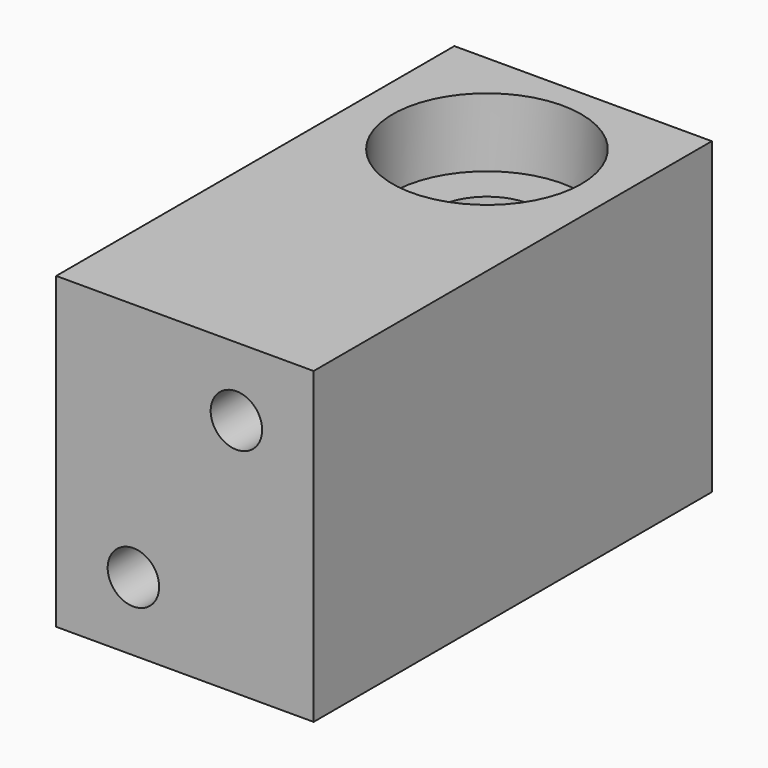
from build123d import *

# Parameters (mm, degrees)
CYLINDER095_R      = 1.5
CYLINDER095_DEPTH  = 21
CYLINDER094_R      = 1.5
CYLINDER094_DEPTH  = 21
CYLINDER085_R      = 1.8
CYLINDER085_DEPTH  = 12
CYLINDER088_R      = 3
CYLINDER088_DEPTH  = 1
CYLINDER089_R      = 3
CYLINDER089_DEPTH  = 1
CYLINDER087_R      = 5.5
CYLINDER087_DEPTH  = 4
CYLINDER086_R      = 5.5
CYLINDER086_DEPTH  = 4
BOX406008013_W     = 15
BOX406008013_H     = 29
BOX406008013_DEPTH = 18
CHAMFER_SIZE       = 0.5
CHAMFER001_SIZE    = 0.5


with BuildPart() as cylinder095:
    # Cylinder095 → Cylinder095 (new body)
    with BuildSketch(Plane(origin=(3, -13, -4), x_dir=(1, 0, 0), z_dir=(0, -1, 0))):
        Circle(CYLINDER095_R)
    extrude(amount=CYLINDER095_DEPTH)


with BuildPart() as fusion103077013004017014:
    # Cylinder094 → Cylinder094 (new body)
    with BuildSketch(Plane(origin=(-3, -13, -14), x_dir=(1, 0, 0), z_dir=(0, -1, 0))):
        Circle(CYLINDER094_R)
    extrude(amount=CYLINDER094_DEPTH)

    # Fusion103077013004017014: union Cylinder095
    add(cylinder095.part)


with BuildPart() as cylinder081:
    # Cylinder085 → Cylinder085 (new body)
    with BuildSketch(Plane.XY.offset(-14)):
        Circle(CYLINDER085_R)
    extrude(amount=CYLINDER085_DEPTH)


with BuildPart() as cylinder082:
    # Cylinder088 → Cylinder088 (new body)
    with BuildSketch(Plane.XY.offset(-5)):
        Circle(CYLINDER088_R)
    extrude(amount=CYLINDER088_DEPTH)


with BuildPart() as fusion103077013004017009:
    # Cylinder089 → Cylinder089 (new body)
    with BuildSketch(Plane.XY.offset(-14)):
        Circle(CYLINDER089_R)
    extrude(amount=CYLINDER089_DEPTH)

    # Fusion103077013004017009: union Cylinder082
    add(cylinder082.part)


with BuildPart() as f_623_bearing003:
    # Cylinder087 → Cylinder087 (new body)
    with BuildSketch(Plane.XY.offset(-18)):
        Circle(CYLINDER087_R)
    extrude(amount=CYLINDER087_DEPTH)


with BuildPart() as f_623_bearing_holes:
    # Cylinder086 → Cylinder086 (new body)
    with BuildSketch(Plane.XY.offset(-4)):
        Circle(CYLINDER086_R)
    extrude(amount=CYLINDER086_DEPTH)

    # Fusion103077013004017008: union 623 Bearing003
    add(f_623_bearing003.part)


with BuildPart() as cut078:
    # Box406008013 → Box406008013 (new body)
    with BuildSketch(Plane(origin=(-7.5, -22, -18), x_dir=(1, 0, 0), z_dir=(0, 0, 1))):
        with Locations((7.5, 14.5)):
            Rectangle(BOX406008013_W, BOX406008013_H)
    extrude(amount=BOX406008013_DEPTH)

    # Cut070: cut 623 Bearing Holes
    add(f_623_bearing_holes.part, mode=Mode.SUBTRACT)

    # Cut071: cut Fusion103077013004017009
    add(fusion103077013004017009.part, mode=Mode.SUBTRACT)

    # Cut072: cut Cylinder081
    add(cylinder081.part, mode=Mode.SUBTRACT)

    # Chamfer
    chamfer_edges = [cut078.edges().sort_by_distance(p)[0] for p in [
        (-3, 0, -5),
    ]]
    chamfer(chamfer_edges, length=CHAMFER_SIZE)

    # Chamfer001
    chamfer001_edges = [cut078.edges().sort_by_distance(p)[0] for p in [
        (-3, 0, -13),
    ]]
    chamfer(chamfer001_edges, length=CHAMFER001_SIZE)

    # Cut078: cut Fusion103077013004017014
    add(fusion103077013004017014.part, mode=Mode.SUBTRACT)


solid = cut078.part
